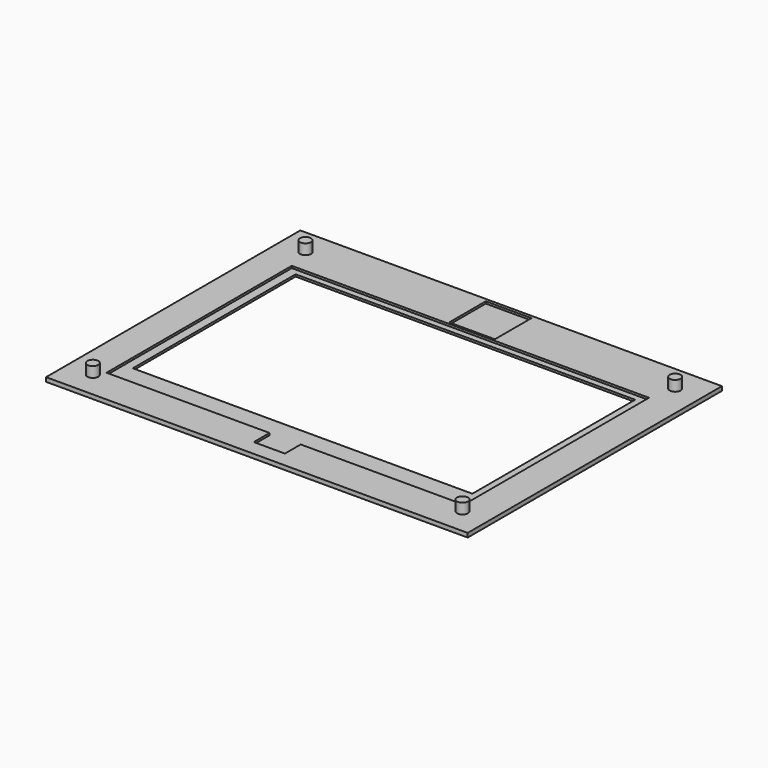
from build123d import *

# Parameters (mm, degrees)
SKETCH_W        = 203
SKETCH_H        = 153
SKETCH_W_2      = 163.5
SKETCH_H_2      = 98
PAD_DEPTH       = 2
SKETCH003_W     = 172
SKETCH003_H     = 111.5
POCKET001_DEPTH = 1
SKETCH002_W     = 22
SKETCH002_H     = 22
SKETCH002_W_2   = 15
SKETCH002_H_2   = 15
POCKET_DEPTH    = 1
SKETCH001_R     = 2.625
PAD001_DEPTH    = 5


with BuildPart() as part:
    # Sketch (on DatumPlane) → Pad (new body)
    with BuildSketch(Plane.XY.offset(-2)):
        Rectangle(SKETCH_W, SKETCH_H)
        Rectangle(SKETCH_W_2, SKETCH_H_2, mode=Mode.SUBTRACT)
    extrude(amount=PAD_DEPTH)

    # Sketch003 (on DatumPlane) → Pocket001 (cut)
    with BuildSketch(Plane.XY):
        with Locations((0, -3.75)):
            Rectangle(SKETCH003_W, SKETCH003_H)
    extrude(amount=-POCKET001_DEPTH, mode=Mode.SUBTRACT)

    # Sketch002 (on DatumPlane) → Pocket (cut)
    with BuildSketch(Plane.XY):
        with Locations((0, 64)):
            Rectangle(SKETCH002_W, SKETCH002_H)
        with Locations((0, -61.5)):
            Rectangle(SKETCH002_W_2, SKETCH002_H_2)
    extrude(amount=-POCKET_DEPTH, mode=Mode.SUBTRACT)

    # Sketch001 (on DatumPlane) → Pad001 (join)
    with BuildSketch(Plane.XY):
        with Locations((89, 64)):
            Circle(SKETCH001_R)
        with Locations((-89, 64)):
            Circle(SKETCH001_R)
        with Locations((-89, -64)):
            Circle(SKETCH001_R)
        with Locations((89, -64)):
            Circle(SKETCH001_R)
    extrude(amount=PAD001_DEPTH)


solid = part.part
